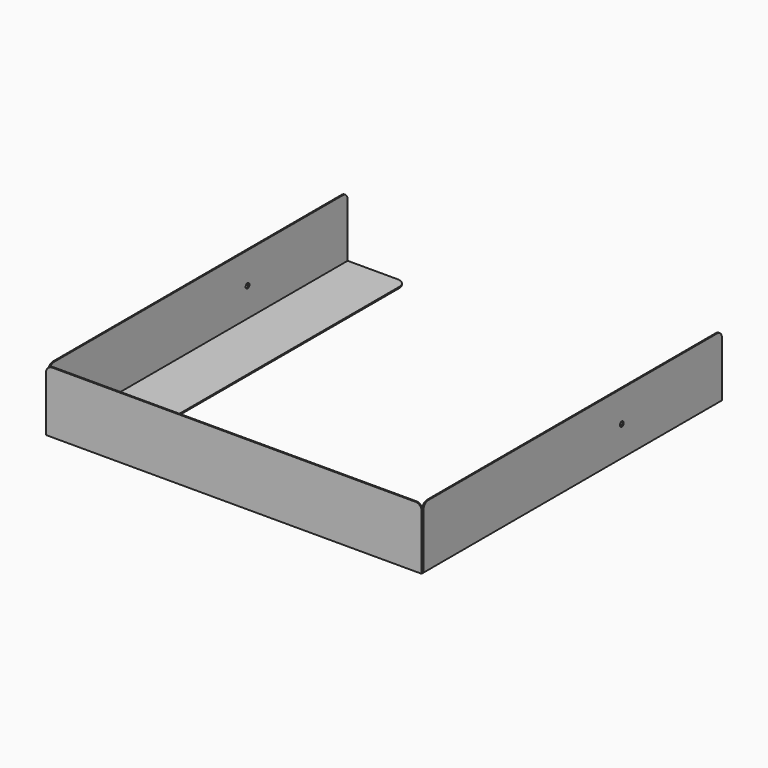
from build123d import *

# Parameters (mm, degrees)
F0_W     = 624
F0_H     = 624
F1_DEPTH = 2
F2_W     = 624
F2_H     = 2
F2_W_2   = 2
F2_H_2   = 620
F3_DEPTH = 100
F4_R     = 10
F6_D     = 8
F7_W     = 422
F7_H     = 520
F8_DEPTH = 25
F9_R     = 15


with BuildPart() as f1:
    # F0 (on Top) → F1 (new body)
    with BuildSketch(Plane.XY):
        Rectangle(F0_W, F0_H)
    extrude(amount=F1_DEPTH)

    # F2 (on face) → F3 (join)
    with BuildSketch(Plane.XY.offset(2)):
        with Locations((0, -311)):
            Rectangle(F2_W, F2_H)
        with Locations((-311, 2)):
            Rectangle(F2_W_2, F2_H_2)
        with Locations((311, 2)):
            Rectangle(F2_W_2, F2_H_2)
    extrude(amount=F3_DEPTH)

    # F4
    f4_edges = [f1.edges().sort_by_distance(p)[0] for p in [
        (311, 312, 102),
        (-311, 312, 102),
        (-312, -311, 102),
        (-311, -308, 102),
        (311, -308, 102),
        (312, -311, 102),
    ]]
    fillet(f4_edges, radius=F4_R)

    # F6 (through all)
    with Locations(Plane(origin=(-312, 0, 0), x_dir=(0, -1, 0), z_dir=(-1, 0, 0))):
        with Locations((-104, 50)):
            Hole(F6_D / 2)

    # F7 (on face) → F8 (cut)
    with BuildSketch(Plane.XY.offset(2)):
        with Locations((-1, 52)):
            Rectangle(F7_W, F7_H)
    extrude(amount=-F8_DEPTH, mode=Mode.SUBTRACT)

    # F9
    f9_edges = [f1.edges().sort_by_distance(p)[0] for p in [
        (210, -208, 1),
        (210, 312, 1),
        (-212, 312, 1),
        (-212, -208, 1),
    ]]
    fillet(f9_edges, radius=F9_R)


solid = f1.part
